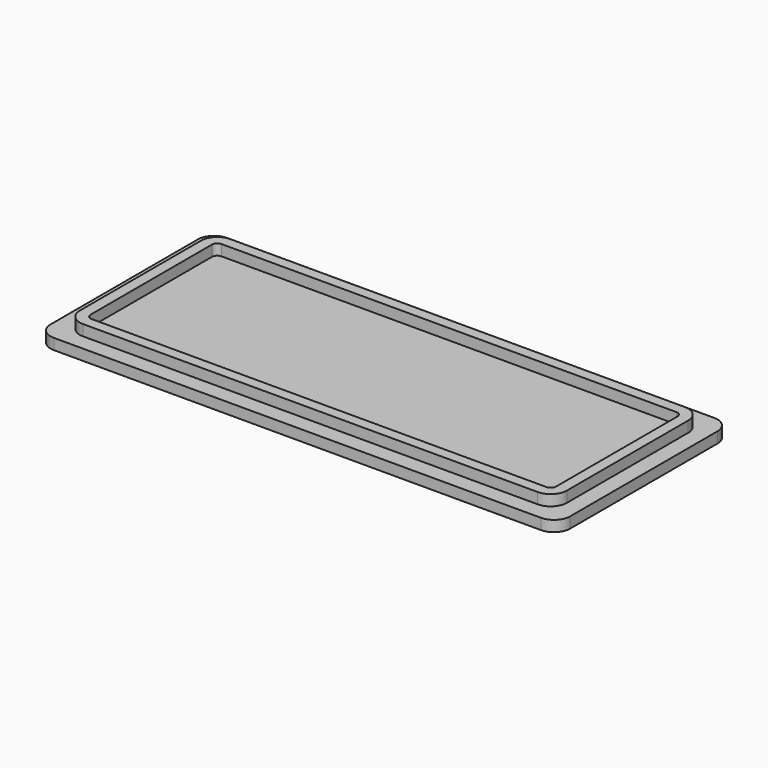
from build123d import *

# Parameters (mm, degrees)
F0_W     = 152.4
F0_H     = 63.5
F1_DEPTH = 3.175
F2_W     = 142.875
F2_H     = 53.975
F3_DEPTH = 3.175
F4_R     = 4.7625
F5_T     = -3.175


with BuildPart() as f1:
    # F0 (on Top) → F1 (new body)
    with BuildSketch(Plane.XY):
        Rectangle(F0_W, F0_H)
    extrude(amount=F1_DEPTH)

    # F2 (on face) → F3 (join)
    with BuildSketch(Plane.XY.offset(3.175)):
        Rectangle(F2_W, F2_H)
    extrude(amount=F3_DEPTH)

    # F4
    f4_edges = [f1.edges().sort_by_distance(p)[0] for p in [
        (71.4375, -26.9875, 4.7625),
        (71.4375, 26.9875, 4.7625),
        (-71.4375, -26.9875, 4.7625),
        (76.2, -31.75, 1.5875),
        (76.2, 31.75, 1.5875),
        (-76.2, -31.75, 1.5875),
        (-71.4375, 26.9875, 4.7625),
        (-76.2, 31.75, 1.5875),
    ]]
    fillet(f4_edges, radius=F4_R)

    # F5
    f5_openings = [f1.faces().sort_by_distance(p)[0] for p in [
        (0, 0, 6.35),
    ]]
    offset(amount=F5_T, openings=f5_openings, kind=Kind.INTERSECTION)


solid = f1.part
